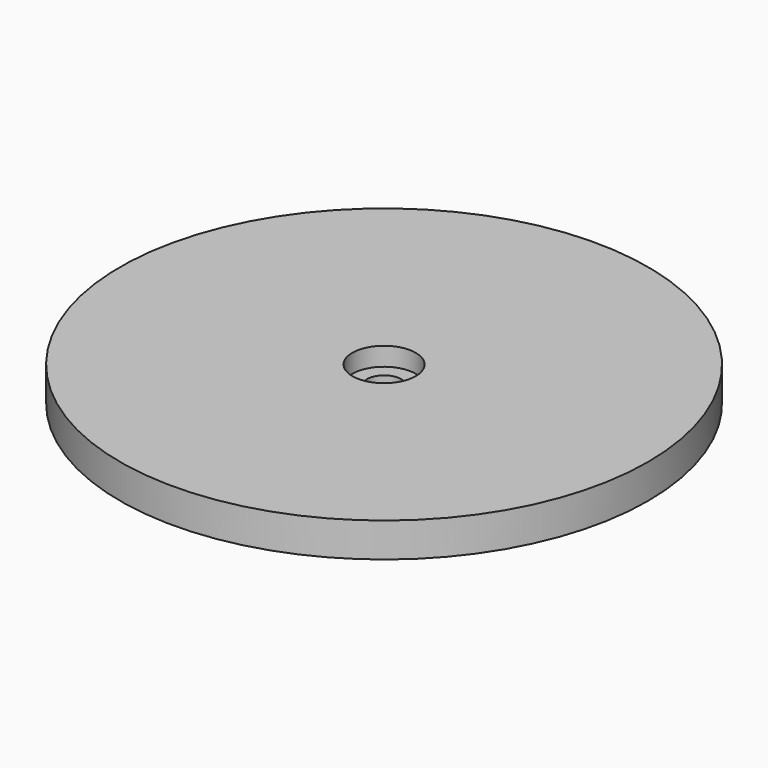
from build123d import *

# Parameters (mm, degrees)
F0_R     = 50
F0_R_2   = 45
F0_R_3   = 3.25
F1_DEPTH = 3
F2_R     = 50
F2_R_2   = 6
F3_DEPTH = 3.5


with BuildPart() as f1:
    # F0 (on Top) → F1 (new body)
    with BuildSketch(Plane.XY):
        Circle(F0_R)
        Circle(F0_R_2, mode=Mode.SUBTRACT)
        Circle(F0_R_2)
        Circle(F0_R_3, mode=Mode.SUBTRACT)
    extrude(amount=F1_DEPTH)

    # F2 (on face) → F3 (join)
    with BuildSketch(Plane.XY.offset(3)):
        Circle(F2_R)
        Circle(F2_R_2, mode=Mode.SUBTRACT)
    extrude(amount=F3_DEPTH)


solid = f1.part
